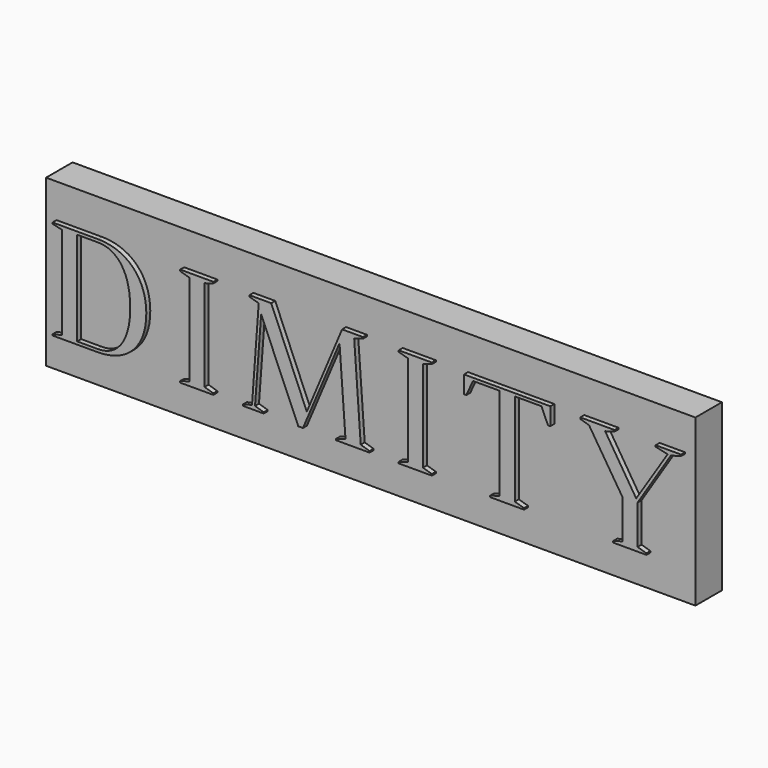
from build123d import *

# Parameters (mm, degrees)
F1_DEPTH = 15
F2_W     = 1960
F2_H     = 500
F3_DEPTH = 100
F4_W     = 1954
F4_H     = 494
F5_DEPTH = 97


with BuildPart() as f1:
    # F0 (on Front) → F1 (new body)
    with BuildSketch(Plane.XZ):
        with BuildLine():
            Line((-811.4863290109, 190.8960236935), (-948.4822653052, 190.8960236935))
            Line((-948.4822653052, 190.8960236935), (-948.4822653052, 187.026470246))
            Line((-948.4822653052, 187.026470246), (-920.5675615954, 180.5855808972))
            Line((-920.5675615954, 180.5855808972), (-920.5675615954, -99.4144191028))
            Line((-920.5675615954, -99.4144191028), (-948.4822653052, -106.2880248782))
            Line((-948.4822653052, -106.2880248782), (-948.4822653052, -109.7185700347))
            Line((-948.4822653052, -109.7185700347), (-811.4863290109, -109.7185700347))
            add(Edge.make_bspline(
                [(-811.4863290109, -109.7185700347), (-725.5950765146, -109.7185700347), (-665.4719211129, -53.8951927924), (-665.4719211129, 40.5855808972)],
                knots=[0, 0, 0, 0, 1, 1, 1, 1], degree=3))
            add(Edge.make_bspline(
                [(-665.4719211129, 40.5855808972), (-665.4719211129, 134.2074070186), (-725.5950765146, 190.8960236935), (-811.4863290109, 190.8960236935)],
                knots=[0, 0, 0, 0, 1, 1, 1, 1], degree=3))
        make_face()
        with BuildLine():
            Line((-874.1893877168, -101.1328034801), (-874.1893877168, 182.3039994076))
            Line((-874.1893877168, 182.3039994076), (-811.4863290109, 182.3039994076))
            add(Edge.make_bspline(
                [(-811.4863290109, 182.3039994076), (-754.7954481751, 182.3039994076), (-714.0012413063, 135.0653647276), (-714.0012413063, 40.1591222018)],
                knots=[0, 0, 0, 0, 1, 1, 1, 1], degree=3))
            add(Edge.make_bspline(
                [(-714.0012413063, 40.1591222018), (-714.0012413063, -54.3216514878), (-754.7954481751, -101.1328034801), (-811.4863290109, -101.1328034801)],
                knots=[0, 0, 0, 0, 1, 1, 1, 1], degree=3))
            Line((-811.4863290109, -101.1328034801), (-874.1893877168, -101.1328034801))
        make_face(mode=Mode.SUBTRACT)
    extrude(amount=F1_DEPTH)


with BuildPart() as f1b:
    # F0 (on Front) → F1, piece 2 (new body)
    with BuildSketch(Plane.XZ):
        Polygon((-463.1765365311, 190.8960236935), (-563.2455211101, 190.8960236935), (-563.2455211101, 186.6000115506), (-535.3245482914, 178.4407036914), (-535.3245482914, -97.2695418969), (-563.2455211101, -105.428815623), (-563.2455211101, -109.7185700347), (-463.1765365311, -109.7185700347), (-463.1765365311, -105.428815623), (-489.8055495349, -97.2695418969), (-489.8055495349, 178.4407036914), (-463.1765365311, 186.6000115506), align=None)
    extrude(amount=F1_DEPTH)


with BuildPart() as f1c:
    # F0 (on Front) → F1, piece 3 (new body)
    with BuildSketch(Plane.XZ):
        Polygon((-288.3881929127, 190.8960236935), (-354.0953039465, 190.8960236935), (-354.0953039465, 186.6000115506), (-326.1806002367, 178.4407036914), (-346.3687466471, -98.1287511521), (-374.2771926257, -106.2880248782), (-374.2771926257, -109.7185700347), (-311.1476752244, -109.7185700347), (-311.1476752244, -106.2880248782), (-337.3502522882, -98.1287511521), (-318.8805243881, 151.8179484188), (-206.7952394757, -109.7185700347), (-192.6214895855, -109.7185700347), (-82.2546231834, 151.3851978591), (-64.2113539788, -97.2695418969), (-92.1323154199, -105.428815623), (-92.1323154199, -109.7185700347), (8.3631164769, -109.7185700347), (8.3631164769, -105.428815623), (-18.2659306599, -97.2695418969), (-38.0150574017, 178.4407036914), (-11.3922793737, 186.6000115506), (-11.3922793737, 190.8960236935), (-74.5217967751, 190.8960236935), (-181.0254129717, -62.4811869009), align=None)
    extrude(amount=F1_DEPTH)


with BuildPart() as f1d:
    # F0 (on Front) → F1, piece 4 (new body)
    with BuildSketch(Plane.XZ):
        Polygon((196.4847853017, 190.8960236935), (96.4220698316, 190.8960236935), (96.4220698316, 186.6000115506), (124.3367735414, 178.4407036914), (124.3367735414, -97.2695418969), (96.4220698316, -105.428815623), (96.4220698316, -109.7185700347), (196.4847853017, -109.7185700347), (196.4847853017, -105.428815623), (169.8620414068, -97.2695418969), (169.8620414068, 178.4407036914), (196.4847853017, 186.6000115506), align=None)
    extrude(amount=F1_DEPTH)


with BuildPart() as f1e:
    # F0 (on Front) → F1, piece 5 (new body)
    with BuildSketch(Plane.XZ):
        Polygon((554.2270267512, 190.8960236935), (293.5497061751, 190.8960236935), (293.5497061751, 138.0707027349), (300.4170542193, 138.0707027349), (320.6052006298, 182.3039994076), (400.4797696895, 182.3039994076), (400.4797696895, -97.2695418969), (372.5650659796, -105.428815623), (372.5650659796, -109.7185700347), (474.7789163869, -109.7185700347), (474.7789163869, -105.428815623), (446.864212677, -97.2695418969), (446.864212677, 182.3039994076), (527.1777900278, 182.3039994076), (546.9269281472, 138.0707027349), (554.2270267512, 138.0707027349), align=None)
    extrude(amount=F1_DEPTH)


with BuildPart() as f1f:
    # F0 (on Front) → F1, piece 6 (new body)
    with BuildSketch(Plane.XZ):
        Polygon((747.9303756695, 190.8960236935), (644.4308231785, 190.8960236935), (644.4308231785, 186.6000115506), (671.0536012065, 178.4407036914), (771.549044481, 20.8301850466), (771.549044481, -97.2695418969), (743.6343635266, -105.428815623), (743.6343635266, -109.7185700347), (844.1235376921, -109.7185700347), (844.1235376921, -105.428815623), (817.5007596642, -97.2695418969), (817.5007596642, 20.8301850466), (917.9899338298, 178.4407036914), (948.4822653052, 186.6000115506), (948.4822653052, 190.8960236935), (872.0445105109, 190.8960236935), (872.0445105109, 186.6000115506), (908.1184879468, 178.4407036914), (813.2110052525, 30.2814185876), (719.5891791311, 178.4407036914), (747.9303756695, 186.6000115506), align=None)
    extrude(amount=F1_DEPTH)


with BuildPart() as f3:
    # F2 (on Front) → F3 (new body)
    with BuildSketch(Plane.XZ):
        with Locations((0, 43.4922596839)):
            Rectangle(F2_W, F2_H)
    extrude(amount=-F3_DEPTH)

    # F4 (on face) → F5 (cut)
    with BuildSketch(Plane(origin=(0, 100, 0), x_dir=(-1, 0, 0), z_dir=(0, 1, 0))):
        with Locations((0, 43.4922596839)):
            Rectangle(F4_W, F4_H)
    extrude(amount=-F5_DEPTH, mode=Mode.SUBTRACT)


solid = Compound([f1.part, f1b.part, f1c.part, f1d.part, f1e.part, f1f.part, f3.part])
